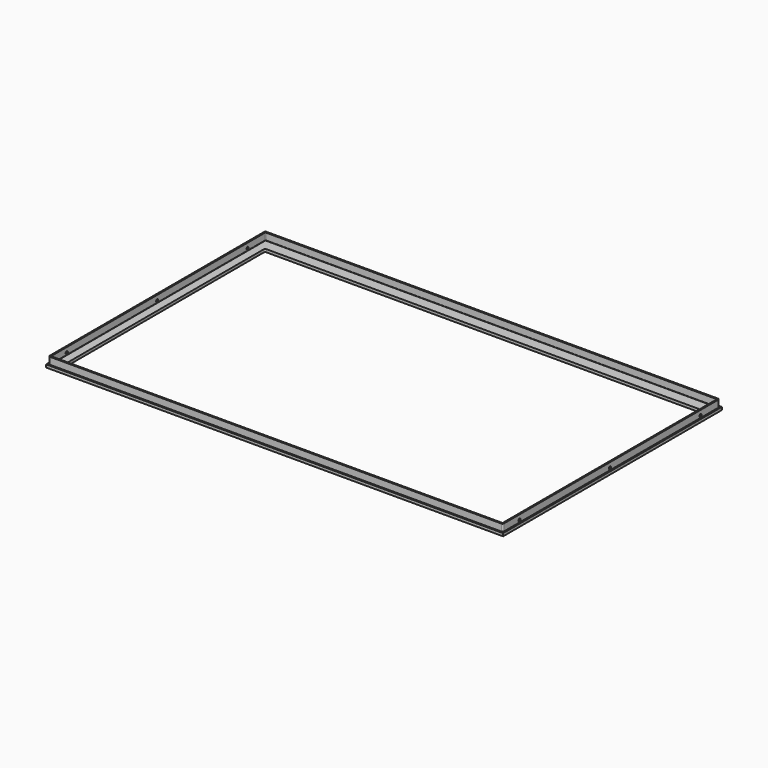
from build123d import *

# Parameters (mm, degrees)
SKETCH_W            = 327.5
SKETCH_H            = 196
SKETCH_W_2          = 311.5
SKETCH_H_2          = 178
PAD_DEPTH           = 2
SKETCH002_W         = 325.5
SKETCH002_H         = 194
SKETCH002_W_2       = 323.5
SKETCH002_H_2       = 192
PAD001_DEPTH        = 5
SKETCH005_R         = 0.95
POCKET_DEPTH        = 326.501
LINEARPATTERN_COUNT = 3
LINEARPATTERN_PITCH = 81
FILLET_R            = 0.25
FILLET001_R         = 1
FILLET002_R         = 0.25
FILLET003_R         = 1


with BuildPart() as part:
    # Sketch → Pad (new body)
    with BuildSketch(Plane.XY):
        with Locations((163.75, 98)):
            Rectangle(SKETCH_W, SKETCH_H)
        with Locations((163.75, 97)):
            Rectangle(SKETCH_W_2, SKETCH_H_2, mode=Mode.SUBTRACT)
    extrude(amount=PAD_DEPTH)

    # Sketch002 (on Face10 of Pad) → Pad001 (join)
    with BuildSketch(Plane.XY.offset(2)):
        with Locations((163.75, 98)):
            Rectangle(SKETCH002_W, SKETCH002_H)
        with Locations((163.75, 98)):
            Rectangle(SKETCH002_W_2, SKETCH002_H_2, mode=Mode.SUBTRACT)
    extrude(amount=PAD001_DEPTH)

    # Sketch005 (on Face12 of Pad001) → Pocket (cut, through all)
    with BuildSketch(Plane.YZ.offset(326.5)):
        with Locations((16, 3.5)):
            Circle(SKETCH005_R)
    pocket = extrude(amount=-POCKET_DEPTH, mode=Mode.SUBTRACT)

    # LinearPattern: Pocket ×3
    with Locations(*[(0, i * LINEARPATTERN_PITCH, 0) for i in range(1, LINEARPATTERN_COUNT)]):
        add(pocket, mode=Mode.SUBTRACT)

    # Fillet
    fillet_edges = [part.edges().sort_by_distance(p)[0] for p in [
        (2, 194, 4.5),
        (2, 2, 4.5),
        (325.5, 2, 4.5),
        (325.5, 194, 4.5),
    ]]
    fillet(fillet_edges, radius=FILLET_R)

    # Fillet001
    fillet001_edges = [part.edges().sort_by_distance(p)[0] for p in [
        (319.5, 186, 1),
        (319.5, 8, 1),
        (8, 186, 1),
        (8, 8, 1),
    ]]
    fillet(fillet001_edges, radius=FILLET001_R)

    # Fillet002
    fillet002_edges = [part.edges().sort_by_distance(p)[0] for p in [
        (163.75, 2, 2),
        (325.5, 98, 2),
        (163.75, 194, 2),
        (2, 98, 2),
        (2.073223, 193.926777, 2),
        (2.073223, 2.073223, 2),
        (325.426777, 2.073223, 2),
        (325.426777, 193.926777, 2),
    ]]
    fillet(fillet002_edges, radius=FILLET002_R)

    # Fillet003
    fillet003_edges = [part.edges().sort_by_distance(p)[0] for p in [
        (326.5, 1, 4.5),
        (326.5, 195, 4.5),
        (1, 1, 4.5),
        (1, 195, 4.5),
    ]]
    fillet(fillet003_edges, radius=FILLET003_R)


solid = part.part
